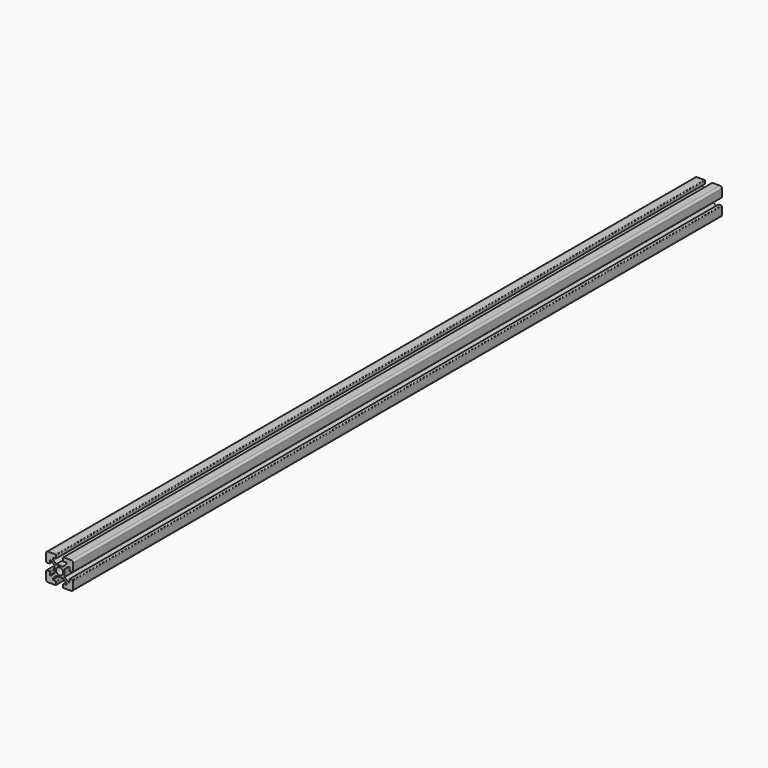
from build123d import *

# Parameters (mm, degrees)
F0_W     = 40
F0_H     = 40
F1_DEPTH = 1200
F2_R     = 5.25
F3_DEPTH = 1200
F5_DEPTH = 1200
F6_R     = 3
F7_R     = 1


with BuildPart() as f1:
    # F0 (on Front) → F1 (new body)
    with BuildSketch(Plane.XZ):
        Rectangle(F0_W, F0_H)
    extrude(amount=-F1_DEPTH)

    # F2 (on Front) → F3 (cut)
    with BuildSketch(Plane.XZ):
        Circle(F2_R)
    extrude(amount=-F3_DEPTH, mode=Mode.SUBTRACT)

    # F4 (on Front) → F5 (cut)
    with BuildSketch(Plane.XZ):
        Polygon((10, 12.5), (10, 14.5), (5, 14.5), (5, 20), (-5, 20), (-5, 14.5), (-10, 14.5), (-10, 12.5), (-5, 7.5), (5, 7.5), align=None)
        Polygon((20, 5), (14.5, 5), (14.5, 10), (12.5, 10), (7.5, 5), (7.5, -5), (12.5, -10), (14.5, -10), (14.5, -5), (20, -5), align=None)
        Polygon((10, -12.5), (5, -7.5), (-5, -7.5), (-10, -12.5), (-10, -14.5), (-5, -14.5), (-5, -20), (5, -20), (5, -14.5), (10, -14.5), align=None)
        Polygon((-12.5, -10), (-7.5, -5), (-7.5, 5), (-12.5, 10), (-14.5, 10), (-14.5, 5), (-20, 5), (-20, -5), (-14.5, -5), (-14.5, -10), align=None)
    extrude(amount=-F5_DEPTH, mode=Mode.SUBTRACT)

    # F6
    f6_edges = [f1.edges().sort_by_distance(p)[0] for p in [
        (-20, 600, 20),
        (20, 600, 20),
        (20, 600, -20),
        (-20, 600, -20),
    ]]
    fillet(f6_edges, radius=F6_R)

    # F7
    f7_edges = [f1.edges().sort_by_distance(p)[0] for p in [
        (-5, 600, 20),
        (-5, 600, 14.5),
        (5, 600, 20),
        (20, 600, 5),
        (14.5, 600, -5),
        (20, 600, -5),
        (5, 600, -14.5),
        (-5, 600, -14.5),
        (-5, 600, -20),
        (-20, 600, -5),
        (-14.5, 600, -5),
        (-14.5, 600, 5),
        (5, 600, -20),
        (14.5, 600, 5),
        (5, 600, 14.5),
        (-20, 600, 5),
    ]]
    fillet(f7_edges, radius=F7_R)


solid = f1.part
